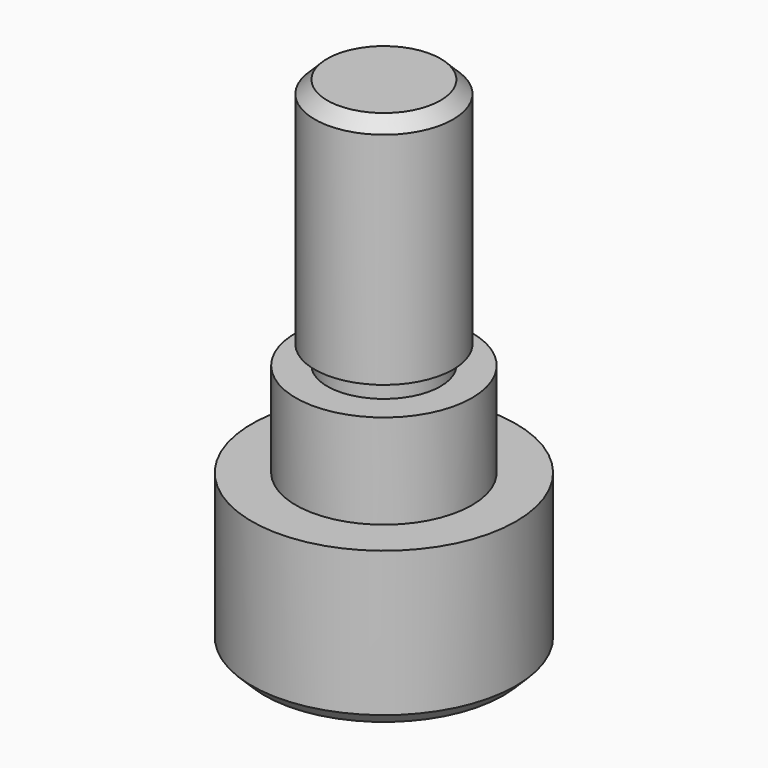
from build123d import *

# Parameters (mm, degrees)
F0_W     = 9
F0_H     = 3
F2_SIZE2 = 2
F2_SIZE  = 2


with BuildPart() as f1:
    # F0 (on Front) → F1 (revolve)
    with BuildSketch(Plane.XZ):
        Polygon((0, 47.565076), (0, 10.565076), (9, 10.565076), (11, 10.565076), (11, 47.565076), align=None)
        with Locations((4.5, 9.065076)):
            Rectangle(F0_W, F0_H)
        Polygon((0, 7.565076), (0, -7.434924), (14, -7.434924), (14, 7.565076), (9, 7.565076), align=None)
        Polygon((0, -7.434924), (0, -32.434924), (21, -32.434924), (21, -7.434924), (14, -7.434924), align=None)
    revolve(axis=Axis((0, 0, 7.565076), (0, 0, -1)))

    # F2
    f2_edges = [f1.edges().sort_by_distance(p)[0] for p in [
        (-11, 0, 47.565076),
        (-21, 0, -32.434924),
    ]]
    chamfer(f2_edges, length=F2_SIZE, length2=F2_SIZE2)


solid = f1.part
